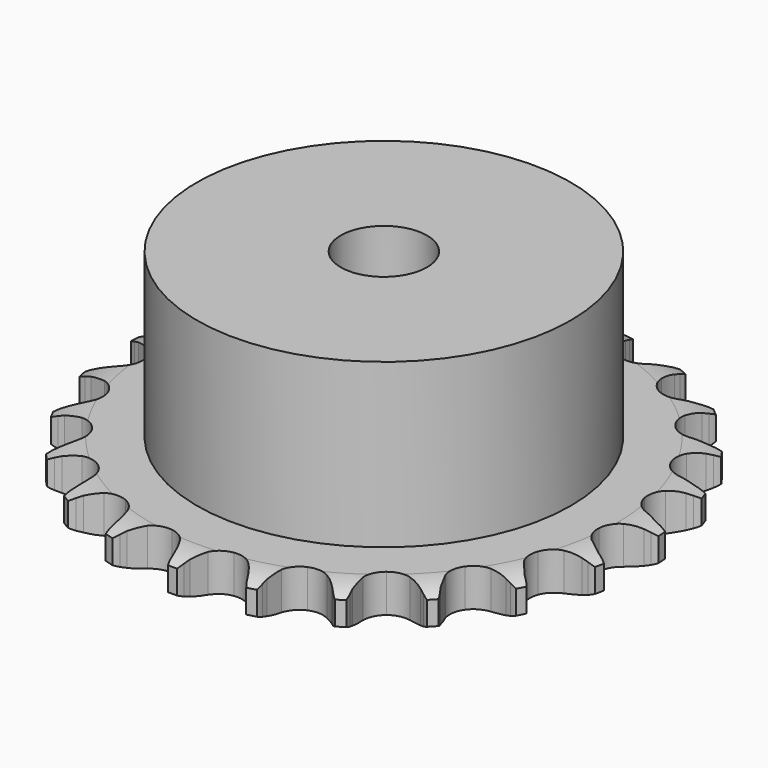
from build123d import *

# Parameters (mm, degrees)
PAD_DEPTH         = 5.3
SKETCH001_R       = 26
PAD001_DEPTH      = 28
SKETCH002_R       = 6
POCKET_DEPTH      = 0.001
POCKET_DEPTH_BACK = 28.001


with BuildPart() as part:
    # Sprocket → Pad (new body)
    with BuildSketch(Plane.XY):
        with BuildLine():
            ThreePointArc((-5.149362, 37.464391), (-4.478189, 36.650296), (-3.985073, 35.717526))
            Line((-3.985073, 35.717526), (-3.677222, 34.957231))
            ThreePointArc((-3.677222, 34.957231), (-3.184, 33.943046), (-2.557984, 33.004993))
            ThreePointArc((-2.557984, 33.004993), (-1.425392, 32.078192), (0, 31.74655))
            ThreePointArc((0, 31.74655), (1.425392, 32.078192), (2.557984, 33.004993))
            ThreePointArc((2.557984, 33.004993), (3.184, 33.943046), (3.677222, 34.957231))
            Line((3.677222, 34.957231), (3.985073, 35.717526))
            ThreePointArc((3.985073, 35.717526), (4.478189, 36.650296), (5.149362, 37.464391))
            ThreePointArc((5.149362, 37.464391), (5.576006, 36.499405), (5.799178, 35.468183))
            Line((5.799178, 35.468183), (5.890487, 34.653025))
            ThreePointArc((5.890487, 34.653025), (6.091796, 33.543379), (6.441513, 32.471214))
            ThreePointArc((6.441513, 32.471214), (7.282058, 31.273211), (8.565117, 30.569302))
            ThreePointArc((8.565117, 30.569302), (10.027127, 30.504079), (11.367768, 31.090942))
            Line((11.367768, 31.090942), (12.972209, 32.668819))
            ThreePointArc((12.972209, 32.668819), (13.214975, 32.999534), (13.473769, 33.317864))
            ThreePointArc((13.473769, 33.317864), (14.200257, 34.083003), (15.066182, 34.685829))
            ThreePointArc((15.066182, 34.685829), (15.216654, 33.64152), (15.15333, 32.588327))
            Line((15.15333, 32.588327), (15.021326, 31.778762))
            ThreePointArc((15.021326, 31.778762), (14.915791, 30.655953), (14.963273, 29.529194))
            ThreePointArc((14.963273, 29.529194), (15.449431, 28.14884), (16.494998, 27.124868))
            ThreePointArc((16.494998, 27.124868), (17.885196, 26.667619), (19.334456, 26.871019))
            Line((19.334456, 26.871019), (21.305106, 27.957511))
            ThreePointArc((21.305106, 27.957511), (21.628096, 28.210465), (21.963177, 28.447167))
            ThreePointArc((21.963177, 28.447167), (22.869157, 28.987929), (23.865611, 29.334777))
            ThreePointArc((23.865611, 29.334777), (23.728753, 28.288597), (23.383629, 27.291544))
            Line((23.383629, 27.291544), (23.038102, 26.547614))
            ThreePointArc((23.038102, 26.547614), (22.63355, 25.494914), (22.375276, 24.397129))
            ThreePointArc((22.375276, 24.397129), (22.470991, 22.936798), (23.20152, 21.668707))
            ThreePointArc((23.20152, 21.668707), (24.416802, 20.853343), (25.867196, 20.658195))
            Line((25.867196, 20.658195), (28.057901, 21.172722))
            ThreePointArc((28.057901, 21.172722), (28.437159, 21.329154), (28.823677, 21.466675))
            ThreePointArc((28.823677, 21.466675), (29.841957, 21.742954), (30.895038, 21.808099))
            ThreePointArc((30.895038, 21.808099), (30.480998, 20.837638), (29.879671, 19.970672))
            Line((29.879671, 19.970672), (29.346247, 19.347551))
            ThreePointArc((29.346247, 19.347551), (28.672682, 18.443035), (28.127806, 17.45564))
            ThreePointArc((28.127806, 17.45564), (27.825979, 16.023639), (28.187292, 14.605478))
            ThreePointArc((28.187292, 14.605478), (29.137525, 13.49247), (30.481485, 12.913247))
            Line((30.481485, 12.913247), (32.72977, 12.817648))
            ThreePointArc((32.72977, 12.817648), (33.137169, 12.865957), (33.546456, 12.894098))
            ThreePointArc((33.546456, 12.894098), (34.601515, 12.885402), (35.633121, 12.664014))
            ThreePointArc((35.633121, 12.664014), (34.972608, 11.841247), (34.159674, 11.168667))
            Line((34.159674, 11.168667), (33.477916, 10.712569))
            ThreePointArc((33.477916, 10.712569), (32.585293, 10.02332), (31.794226, 9.219546))
            ThreePointArc((31.794226, 9.219546), (31.117243, 7.922079), (31.082542, 6.459026))
            ThreePointArc((31.082542, 6.459026), (31.697252, 5.130923), (32.835101, 4.210582))
            Line((32.835101, 4.210582), (34.974222, 3.511949))
            ThreePointArc((34.974222, 3.511949), (35.379547, 3.448551), (35.781248, 3.365224))
            ThreePointArc((35.781248, 3.365224), (36.794837, 3.0722), (37.728458, 2.580697))
            ThreePointArc((37.728458, 2.580697), (36.870459, 1.966645), (35.906211, 1.538333))
            Line((35.906211, 1.538333), (35.12668, 1.283084))
            ThreePointArc((35.12668, 1.283084), (34.081201, 0.860222), (33.102614, 0.299681))
            ThreePointArc((33.102614, 0.299681), (32.100682, -0.767025), (31.672541, -2.166461))
            ThreePointArc((31.672541, -2.166461), (31.906138, -3.611162), (32.753488, -4.804362))
            Line((32.753488, -4.804362), (34.624795, -6.054216))
            ThreePointArc((34.624795, -6.054216), (34.997985, -6.224618), (35.362309, -6.413233))
            ThreePointArc((35.362309, -6.413233), (36.259254, -6.968854), (37.025648, -7.694018))
            ThreePointArc((37.025648, -7.694018), (36.033796, -8.053815), (34.989749, -8.206093))
            Line((34.989749, -8.206093), (34.170259, -8.241561))
            ThreePointArc((34.170259, -8.241561), (33.049463, -8.366676), (31.955932, -8.64241))
            ThreePointArc((31.955932, -8.64241), (30.703361, -9.399242), (29.913533, -10.631272))
            ThreePointArc((29.913533, -10.631272), (29.748692, -12.085423), (30.242698, -13.462988))
            Line((30.242698, -13.462988), (31.707406, -15.171367))
            ThreePointArc((31.707406, -15.171367), (32.020783, -15.436136), (32.320709, -15.71605))
            ThreePointArc((32.320709, -15.71605), (33.034488, -16.493059), (33.576816, -17.398104))
            ThreePointArc((33.576816, -17.398104), (32.524672, -17.476959), (31.478257, -17.34191))
            Line((31.478257, -17.34191), (30.679587, -17.154967))
            ThreePointArc((30.679587, -17.154967), (29.566597, -16.973055), (28.439225, -16.943534))
            ThreePointArc((28.439225, -16.943534), (27.028912, -17.33436), (25.935975, -18.307611))
            ThreePointArc((25.935975, -18.307611), (25.384922, -19.663364), (25.488946, -21.123126))
            Line((25.488946, -21.123126), (26.438423, -23.163327))
            ThreePointArc((26.438423, -23.163327), (26.668746, -23.502826), (26.88203, -23.853279))
            ThreePointArc((26.88203, -23.853279), (27.359705, -24.79405), (27.637744, -25.811851))
            ThreePointArc((27.637744, -25.811851), (26.603342, -25.603918), (25.632166, -25.191557))
            Line((25.632166, -25.191557), (24.91355, -24.796068))
            ThreePointArc((24.91355, -24.796068), (23.890912, -24.32062), (22.813311, -23.988033))
            ThreePointArc((22.813311, -23.988033), (21.349852, -23.983868), (20.034865, -24.626157))
            ThreePointArc((20.034865, -24.626157), (19.138468, -25.782963), (18.844796, -27.216659))
            Line((18.844796, -27.216659), (19.208624, -29.437369))
            ThreePointArc((19.208624, -29.437369), (19.33881, -29.826419), (19.449634, -30.22142))
            ThreePointArc((19.449634, -30.22142), (19.655779, -31.25618), (19.648907, -32.311252))
            ThreePointArc((19.648907, -32.311252), (18.708964, -31.831951), (17.885055, -31.172861))
            Line((17.885055, -31.172861), (17.299789, -30.598158))
            ThreePointArc((17.299789, -30.598158), (16.443347, -29.864437), (15.495437, -29.253449))
            ThreePointArc((15.495437, -29.253449), (14.087372, -28.854602), (12.64786, -29.118294))
            ThreePointArc((12.64786, -29.118294), (11.472601, -29.990357), (10.803013, -31.291656))
            Line((10.803013, -31.291656), (10.554209, -33.528177))
            ThreePointArc((10.554209, -33.528177), (10.574603, -33.937923), (10.574747, -34.348176))
            ThreePointArc((10.574747, -34.348176), (10.494073, -35.400181), (10.202801, -36.414275))
            ThreePointArc((10.202801, -36.414275), (9.427027, -35.699154), (8.811492, -34.842217))
            Line((8.811492, -34.842217), (8.402982, -34.130922))
            ThreePointArc((8.402982, -34.130922), (7.776255, -33.193344), (7.028339, -32.349271))
            ThreePointArc((7.028339, -32.349271), (5.780095, -31.585323), (4.322821, -31.450861))
            ThreePointArc((4.322821, -31.450861), (2.955865, -31.973504), (1.96002, -33.045895))
            Line((1.96002, -33.045895), (1.117036, -35.132352))
            ThreePointArc((1.117036, -35.132352), (1.026126, -35.532406), (0.91558, -35.927485))
            ThreePointArc((0.91558, -35.927485), (0.554069, -36.918714), (0, -37.816617))
            ThreePointArc((0, -37.816617), (-0.554069, -36.918714), (-0.91558, -35.927485))
            Line((-0.91558, -35.927485), (-1.117036, -35.132352))
            ThreePointArc((-1.117036, -35.132352), (-1.467567, -34.060454), (-1.96002, -33.045895))
            ThreePointArc((-1.96002, -33.045895), (-2.955865, -31.973504), (-4.322821, -31.450861))
            ThreePointArc((-4.322821, -31.450861), (-5.780095, -31.585323), (-7.028339, -32.349271))
            Line((-7.028339, -32.349271), (-8.402982, -34.130922))
            ThreePointArc((-8.402982, -34.130922), (-8.598454, -34.491614), (-8.811492, -34.842217))
            ThreePointArc((-8.811492, -34.842217), (-9.427027, -35.699154), (-10.202801, -36.414275))
            ThreePointArc((-10.202801, -36.414275), (-10.494073, -35.400181), (-10.574747, -34.348176))
            Line((-10.574747, -34.348176), (-10.554209, -33.528177))
            ThreePointArc((-10.554209, -33.528177), (-10.602546, -32.401455), (-10.803013, -31.291656))
            ThreePointArc((-10.803013, -31.291656), (-11.472601, -29.990357), (-12.64786, -29.118294))
            ThreePointArc((-12.64786, -29.118294), (-14.087372, -28.854602), (-15.495437, -29.253449))
            Line((-15.495437, -29.253449), (-17.299789, -30.598158))
            ThreePointArc((-17.299789, -30.598158), (-17.585326, -30.892736), (-17.885055, -31.172861))
            ThreePointArc((-17.885055, -31.172861), (-18.708964, -31.831951), (-19.648907, -32.311252))
            ThreePointArc((-19.648907, -32.311252), (-19.655779, -31.25618), (-19.449634, -30.22142))
            Line((-19.449634, -30.22142), (-19.208624, -29.437369))
            ThreePointArc((-19.208624, -29.437369), (-18.951183, -28.339388), (-18.844796, -27.216659))
            ThreePointArc((-18.844796, -27.216659), (-19.138468, -25.782963), (-20.034865, -24.626157))
            ThreePointArc((-20.034865, -24.626157), (-21.349852, -23.983868), (-22.813311, -23.988033))
            Line((-22.813311, -23.988033), (-24.91355, -24.796068))
            ThreePointArc((-24.91355, -24.796068), (-25.267975, -25.002686), (-25.632166, -25.191557))
            ThreePointArc((-25.632166, -25.191557), (-26.603342, -25.603918), (-27.637744, -25.811851))
            ThreePointArc((-27.637744, -25.811851), (-27.359705, -24.79405), (-26.88203, -23.853279))
            Line((-26.88203, -23.853279), (-26.438423, -23.163327))
            ThreePointArc((-26.438423, -23.163327), (-25.894297, -22.175519), (-25.488946, -21.123126))
            ThreePointArc((-25.488946, -21.123126), (-25.384922, -19.663364), (-25.935975, -18.307611))
            ThreePointArc((-25.935975, -18.307611), (-27.028912, -17.33436), (-28.439225, -16.943534))
            Line((-28.439225, -16.943534), (-30.679587, -17.154967))
            ThreePointArc((-30.679587, -17.154967), (-31.076614, -17.2583), (-31.478257, -17.34191))
            ThreePointArc((-31.478257, -17.34191), (-32.524672, -17.476959), (-33.576816, -17.398104))
            ThreePointArc((-33.576816, -17.398104), (-33.034488, -16.493059), (-32.320709, -15.71605))
            Line((-32.320709, -15.71605), (-31.707406, -15.171367))
            ThreePointArc((-31.707406, -15.171367), (-30.91695, -14.366993), (-30.242698, -13.462988))
            ThreePointArc((-30.242698, -13.462988), (-29.748692, -12.085423), (-29.913533, -10.631272))
            ThreePointArc((-29.913533, -10.631272), (-30.703361, -9.399242), (-31.955932, -8.64241))
            Line((-31.955932, -8.64241), (-34.170259, -8.241561))
            ThreePointArc((-34.170259, -8.241561), (-34.580442, -8.233946), (-34.989749, -8.206093))
            ThreePointArc((-34.989749, -8.206093), (-36.033796, -8.053815), (-37.025648, -7.694018))
            ThreePointArc((-37.025648, -7.694018), (-36.259254, -6.968854), (-35.362309, -6.413233))
            Line((-35.362309, -6.413233), (-34.624795, -6.054216))
            ThreePointArc((-34.624795, -6.054216), (-33.646633, -5.492932), (-32.753488, -4.804362))
            ThreePointArc((-32.753488, -4.804362), (-31.906138, -3.611162), (-31.672541, -2.166461))
            ThreePointArc((-31.672541, -2.166461), (-32.100682, -0.767025), (-33.102614, 0.299681))
            Line((-33.102614, 0.299681), (-35.12668, 1.283084))
            ThreePointArc((-35.12668, 1.283084), (-35.519597, 1.401083), (-35.906211, 1.538333))
            ThreePointArc((-35.906211, 1.538333), (-36.870459, 1.966645), (-37.728458, 2.580697))
            ThreePointArc((-37.728458, 2.580697), (-36.794837, 3.0722), (-35.781248, 3.365224))
            Line((-35.781248, 3.365224), (-34.974222, 3.511949))
            ThreePointArc((-34.974222, 3.511949), (-33.8809, 3.788513), (-32.835101, 4.210582))
            ThreePointArc((-32.835101, 4.210582), (-31.697252, 5.130923), (-31.082542, 6.459026))
            ThreePointArc((-31.082542, 6.459026), (-31.117243, 7.922079), (-31.794226, 9.219546))
            Line((-31.794226, 9.219546), (-33.477916, 10.712569))
            ThreePointArc((-33.477916, 10.712569), (-33.824427, 10.9322), (-34.159674, 11.168667))
            ThreePointArc((-34.159674, 11.168667), (-34.972608, 11.841247), (-35.633121, 12.664014))
            ThreePointArc((-35.633121, 12.664014), (-34.601515, 12.885402), (-33.546456, 12.894098))
            Line((-33.546456, 12.894098), (-32.72977, 12.817648))
            ThreePointArc((-32.72977, 12.817648), (-31.602376, 12.788983), (-30.481485, 12.913247))
            ThreePointArc((-30.481485, 12.913247), (-29.137525, 13.49247), (-28.187292, 14.605478))
            ThreePointArc((-28.187292, 14.605478), (-27.825979, 16.023639), (-28.127806, 17.45564))
            Line((-28.127806, 17.45564), (-29.346247, 19.347551))
            ThreePointArc((-29.346247, 19.347551), (-29.620653, 19.652525), (-29.879671, 19.970672))
            ThreePointArc((-29.879671, 19.970672), (-30.480998, 20.837638), (-30.895038, 21.808099))
            ThreePointArc((-30.895038, 21.808099), (-29.841957, 21.742954), (-28.823677, 21.466675))
            Line((-28.823677, 21.466675), (-28.057901, 21.172722))
            ThreePointArc((-28.057901, 21.172722), (-26.980048, 20.840951), (-25.867196, 20.658195))
            ThreePointArc((-25.867196, 20.658195), (-24.416802, 20.853343), (-23.20152, 21.668707))
            ThreePointArc((-23.20152, 21.668707), (-22.470991, 22.936798), (-22.375276, 24.397129))
            Line((-22.375276, 24.397129), (-23.038102, 26.547614))
            ThreePointArc((-23.038102, 26.547614), (-23.220051, 26.915313), (-23.383629, 27.291544))
            ThreePointArc((-23.383629, 27.291544), (-23.728753, 28.288597), (-23.865611, 29.334777))
            ThreePointArc((-23.865611, 29.334777), (-22.869157, 28.987929), (-21.963177, 28.447167))
            Line((-21.963177, 28.447167), (-21.305106, 27.957511))
            ThreePointArc((-21.305106, 27.957511), (-20.356733, 27.347242), (-19.334456, 26.871019))
            ThreePointArc((-19.334456, 26.871019), (-17.885196, 26.667619), (-16.494998, 27.124868))
            ThreePointArc((-16.494998, 27.124868), (-15.449431, 28.14884), (-14.963273, 29.529194))
            Line((-14.963273, 29.529194), (-15.021326, 31.778762))
            ThreePointArc((-15.021326, 31.778762), (-15.097324, 32.181915), (-15.15333, 32.588327))
            ThreePointArc((-15.15333, 32.588327), (-15.216654, 33.64152), (-15.066182, 34.685829))
            ThreePointArc((-15.066182, 34.685829), (-14.200257, 34.083003), (-13.473769, 33.317864))
            Line((-13.473769, 33.317864), (-12.972209, 32.668819))
            ThreePointArc((-12.972209, 32.668819), (-12.223653, 31.825313), (-11.367768, 31.090942))
            ThreePointArc((-11.367768, 31.090942), (-10.027127, 30.504079), (-8.565117, 30.569302))
            ThreePointArc((-8.565117, 30.569302), (-7.282058, 31.273211), (-6.441513, 32.471214))
            Line((-6.441513, 32.471214), (-5.890487, 34.653025))
            ThreePointArc((-5.890487, 34.653025), (-5.854897, 35.061731), (-5.799178, 35.468183))
            ThreePointArc((-5.799178, 35.468183), (-5.576006, 36.499405), (-5.149362, 37.464391))
        make_face()
    extrude(amount=PAD_DEPTH)

    # Sketch → Groove (revolve, cut)
    with BuildSketch(Plane.XZ):
        with BuildLine():
            Line((32.391101, 0), (36.75, 0))
            Line((41.108899, 0), (36.75, 0))
            Line((41.108899, 5.3), (41.108899, 0))
            Line((36.75, 5.3), (41.108899, 5.3))
            Line((32.391101, 5.3), (36.75, 5.3))
            ThreePointArc((36.75, 4.3), (34.627169, 5.046794), (32.391101, 5.3))
            Line((36.75, 1), (36.75, 4.3))
            ThreePointArc((32.391101, 0), (34.627169, 0.253206), (36.75, 1))
        make_face()
    revolve(axis=Axis((0, 0, 0), (0, 0, 1)), mode=Mode.SUBTRACT)

    # Sketch001 → Pad001 (join)
    with BuildSketch(Plane.XY):
        Circle(SKETCH001_R)
    extrude(amount=PAD001_DEPTH)

    # Sketch002 → Pocket (cut, two sides)
    with BuildSketch(Plane.XY) as pocket_sk:
        Circle(SKETCH002_R)
    extrude(amount=-POCKET_DEPTH, mode=Mode.SUBTRACT)
    extrude(pocket_sk.sketch, amount=POCKET_DEPTH_BACK, mode=Mode.SUBTRACT)


solid = part.part
